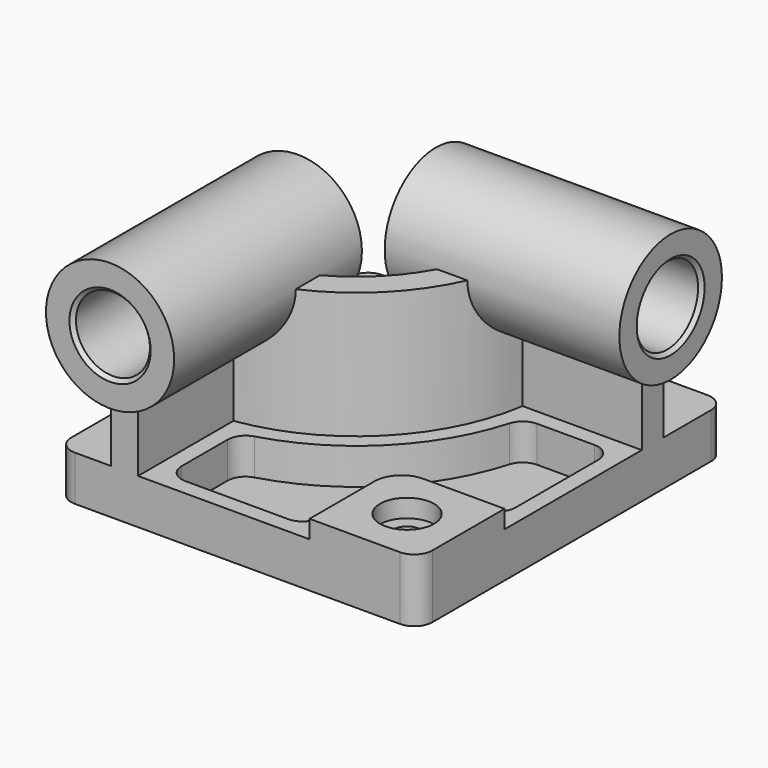
from build123d import *

# Parameters (mm, degrees)
F1_DEPTH  = 25
F3_DEPTH  = 70
F5_DEPTH  = 10
F6_R      = 15
F7_DEPTH  = 10
F8_R      = 7.44
F9_DEPTH  = 25.001
F11_DEPTH = 20
F13_R     = 35.5
F14_DEPTH = 130
F15_R     = 20.5
F16_DEPTH = 223.001
F18_R     = 35.5
F19_DEPTH = 130
F20_R     = 21.5
F21_DEPTH = 210.001
F22_SIZE2 = 2
F22_SIZE  = 2


with BuildPart() as f1:
    # F0 (on Top) → F1 (new body)
    with BuildSketch(Plane.XY):
        with BuildLine():
            Line((-190, 0), (-10, 0))
            ThreePointArc((-10, 0), (-2.9289321881, 2.9289321881), (0, 10))
            Line((0, 10), (0, 203))
            ThreePointArc((0, 203), (-2.9289321881, 210.0710678119), (-10, 213))
            Line((-10, 213), (-190, 213))
            ThreePointArc((-190, 213), (-197.0710678119, 210.0710678119), (-200, 203))
            Line((-200, 203), (-200, 10))
            ThreePointArc((-200, 10), (-197.0710678119, 2.9289321881), (-190, 0))
        make_face()
    extrude(amount=F1_DEPTH)

    # F2 (on face) → F3 (join)
    with BuildSketch(Plane.XY.offset(25)):
        with BuildLine():
            Line((0, 155), (0, 170))
            Line((0, 170), (-80, 170))
            ThreePointArc((-80, 170), (-106.3603896932, 106.3603896932), (-170, 80))
            Line((-170, 80), (-170, 0))
            Line((-170, 0), (-155, 0))
            Line((-155, 0), (-155, 66.0769515459))
            ThreePointArc((-155, 66.0769515459), (-95.7537879754, 95.7537879754), (-66.0769515459, 155))
            Line((-66.0769515459, 155), (0, 155))
        make_face()
    extrude(amount=F3_DEPTH)

    # F4 (on face) → F5 (join)
    with BuildSketch(Plane.XY.offset(25)):
        with BuildLine():
            Line((0, 60), (-45, 60))
            ThreePointArc((-45, 60), (-55.6066017178, 55.6066017178), (-60, 45))
            Line((-60, 45), (-60, 0))
            Line((-60, 0), (-10, 0))
            ThreePointArc((-10, 0), (-2.9289321881, 2.9289321881), (0, 10))
            Line((0, 10), (0, 60))
        make_face()
    extrude(amount=F5_DEPTH)

    # F6 (on face) → F7 (cut)
    with BuildSketch(Plane.XY.offset(35)):
        with Locations((-30, 30)):
            Circle(F6_R)
    extrude(amount=-F7_DEPTH, mode=Mode.SUBTRACT)

    # F8 (on face) → F9 (cut, through all)
    with BuildSketch(Plane.XY.offset(25)):
        with Locations((-30, 30)):
            Circle(F8_R)
    extrude(amount=-F9_DEPTH, mode=Mode.SUBTRACT)

    # F10 (on face) → F11 (cut)
    with BuildSketch(Plane.XY.offset(25)):
        with BuildLine():
            ThreePointArc((-19, 69), (-11.9289321881, 71.9289321881), (-9, 79))
            Line((-9, 79), (-9, 136))
            ThreePointArc((-9, 136), (-11.9289321881, 143.0710678119), (-19, 146))
            Line((-19, 146), (-50.7523585139, 146))
            ThreePointArc((-50.7523585139, 146), (-56.7765034807, 143.981834214), (-60.369103795, 138.7419354839))
            ThreePointArc((-60.369103795, 138.7419354839), (-89.3898269447, 89.3898269447), (-138.7419354839, 60.369103795))
            ThreePointArc((-138.7419354839, 60.369103795), (-143.981834214, 56.7765034807), (-146, 50.7523585139))
            Line((-146, 50.7523585139), (-146, 19))
            ThreePointArc((-146, 19), (-143.0710678119, 11.9289321881), (-136, 9))
            Line((-136, 9), (-79, 9))
            ThreePointArc((-79, 9), (-71.9289321881, 11.9289321881), (-69, 19))
            Line((-69, 19), (-69, 45))
            ThreePointArc((-69, 45), (-61.9705627485, 61.9705627485), (-45, 69))
            Line((-45, 69), (-19, 69))
        make_face()
    extrude(amount=-F11_DEPTH, mode=Mode.SUBTRACT)

    # F13 (on offset) → F14 (join)
    with BuildSketch(Plane.XZ.offset(10)):
        with Locations((-162.5, 95)):
            Circle(F13_R)
    extrude(amount=-F14_DEPTH)

    # F15 (on face) → F16 (cut, through all)
    with BuildSketch(Plane.XZ.offset(10)):
        with Locations((-162.5, 95)):
            Circle(F15_R)
    extrude(amount=-F16_DEPTH, mode=Mode.SUBTRACT)

    # F18 (on offset) → F19 (join)
    with BuildSketch(Plane.YZ.offset(10)):
        with Locations((162.5, 95)):
            Circle(F18_R)
    extrude(amount=-F19_DEPTH)

    # F20 (on face) → F21 (cut, through all)
    with BuildSketch(Plane.YZ.offset(10)):
        with Locations((162.5, 95)):
            Circle(F20_R)
    extrude(amount=-F21_DEPTH, mode=Mode.SUBTRACT)

    # F22
    f22_edges = [f1.edges().sort_by_distance(p)[0] for p in [
        (-183, -10, 95),
        (-183, 120, 95),
        (10, 141, 95),
        (-120, 141, 95),
    ]]
    chamfer(f22_edges, length=F22_SIZE, length2=F22_SIZE2)


solid = f1.part
